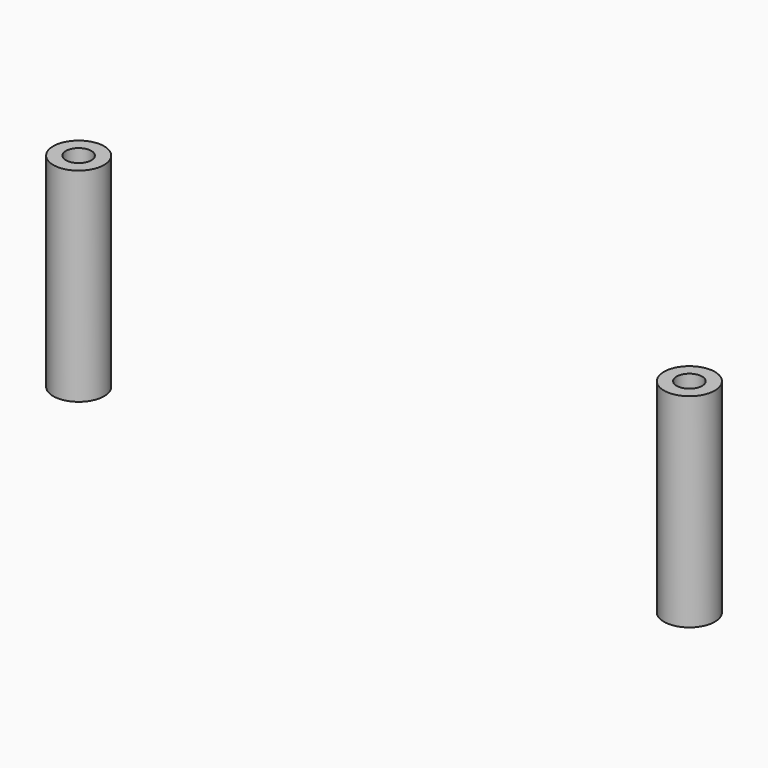
from build123d import *

# Parameters (mm, degrees)
CYLINDER230_R     = 2
CYLINDER230_DEPTH = 42
CYLINDER007_R     = 4
CYLINDER007_DEPTH = 32
CYLINDER012_R     = 2
CYLINDER012_DEPTH = 42
CYLINDER225_R     = 4
CYLINDER225_DEPTH = 32


with BuildPart() as cylinder230:
    # Cylinder230 → Cylinder230 (new body)
    with BuildSketch(Plane(origin=(0, 82, -5), x_dir=(1, 0, 0), z_dir=(0, 0, 1))):
        Circle(CYLINDER230_R)
    extrude(amount=CYLINDER230_DEPTH)


with BuildPart() as cut196:
    # Cylinder007 → Cylinder007 (new body)
    with BuildSketch(Plane(origin=(0, 82, 0), x_dir=(1, 0, 0), z_dir=(0, 0, 1))):
        Circle(CYLINDER007_R)
    extrude(amount=CYLINDER007_DEPTH)

    # Cut196: cut Cylinder230
    add(cylinder230.part, mode=Mode.SUBTRACT)


with BuildPart() as cut196_1:
    # Cut196 placement: moved
    add(cut196.part.moved(Location((14.1, -10, 0))))


with BuildPart() as cylinder012:
    # Cylinder012 → Cylinder012 (new body)
    with BuildSketch(Plane(origin=(-68, 82, -5), x_dir=(1, 0, 0), z_dir=(0, 0, 1))):
        Circle(CYLINDER012_R)
    extrude(amount=CYLINDER012_DEPTH)


with BuildPart() as fusion319:
    # Cylinder225 → Cylinder225 (new body)
    with BuildSketch(Plane(origin=(-68, 82, 0), x_dir=(1, 0, 0), z_dir=(0, 0, 1))):
        Circle(CYLINDER225_R)
    extrude(amount=CYLINDER225_DEPTH)

    # Cut191: cut Cylinder012
    add(cylinder012.part, mode=Mode.SUBTRACT)


with BuildPart() as fusion319_1:
    # Cut191 placement: moved
    add(fusion319.part.moved(Location((-13.9, -10, 0))))

    # Fusion319: union Cut196
    add(cut196_1.part)


with BuildPart() as fusion319_2:
    # Fusion319 placement: moved
    add(fusion319_1.part.moved(Location((0, -5, 0))))


solid = fusion319_2.part
